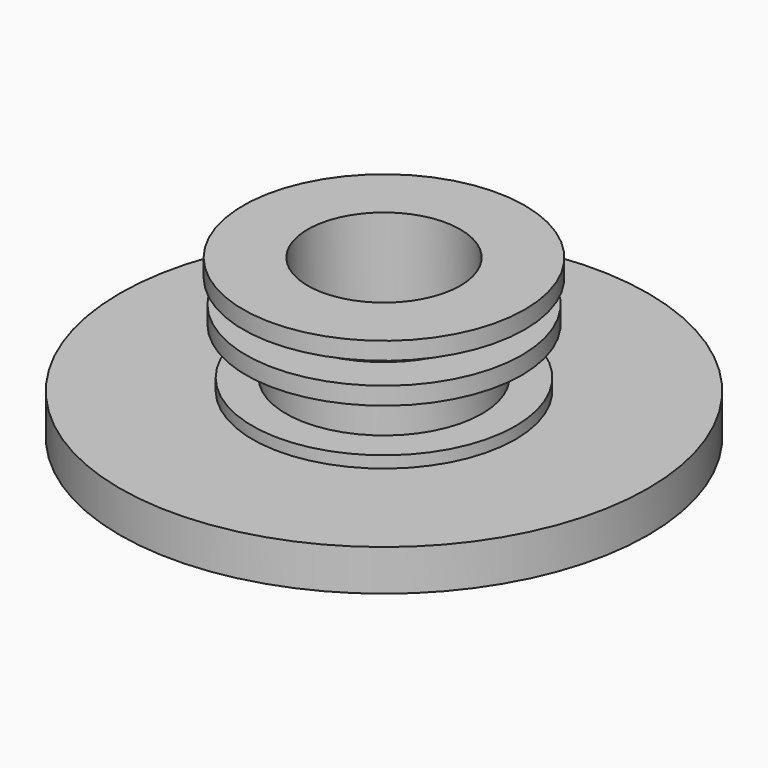
from build123d import *

# Parameters (mm, degrees)
F0_R      = 22.5
F1_DEPTH  = 3.5
F2_R      = 11.2
F3_DEPTH  = 1
F4_R      = 8.35
F5_DEPTH  = 4
F6_R      = 11.75
F7_DEPTH  = 1.5
F8_R      = 8.35
F9_DEPTH  = 2
F10_R     = 12
F11_DEPTH = 1.5
F12_R     = 6.5
F13_DEPTH = 10


with BuildPart() as f1:
    # F0 (on Top) → F1 (new body)
    with BuildSketch(Plane.XY):
        Circle(F0_R)
    extrude(amount=F1_DEPTH)

    # F2 (on face) → F3 (join)
    with BuildSketch(Plane.XY.offset(3.5)):
        Circle(F2_R)
    extrude(amount=F3_DEPTH)

    # F4 (on face) → F5 (join)
    with BuildSketch(Plane.XY.offset(4.5)):
        Circle(F4_R)
    extrude(amount=F5_DEPTH)

    # F6 (on face) → F7 (join)
    with BuildSketch(Plane.XY.offset(8.5)):
        Circle(F6_R)
    extrude(amount=F7_DEPTH)

    # F8 (on face) → F9 (join)
    with BuildSketch(Plane.XY.offset(10)):
        Circle(F8_R)
    extrude(amount=F9_DEPTH)

    # F10 (on face) → F11 (join)
    with BuildSketch(Plane.XY.offset(12)):
        Circle(F10_R)
    extrude(amount=F11_DEPTH)

    # F12 (on face) → F13 (cut, through all)
    with BuildSketch(Plane.XY.offset(13.5)):
        Circle(F12_R)
    extrude(amount=-F13_DEPTH, mode=Mode.SUBTRACT)


solid = f1.part
